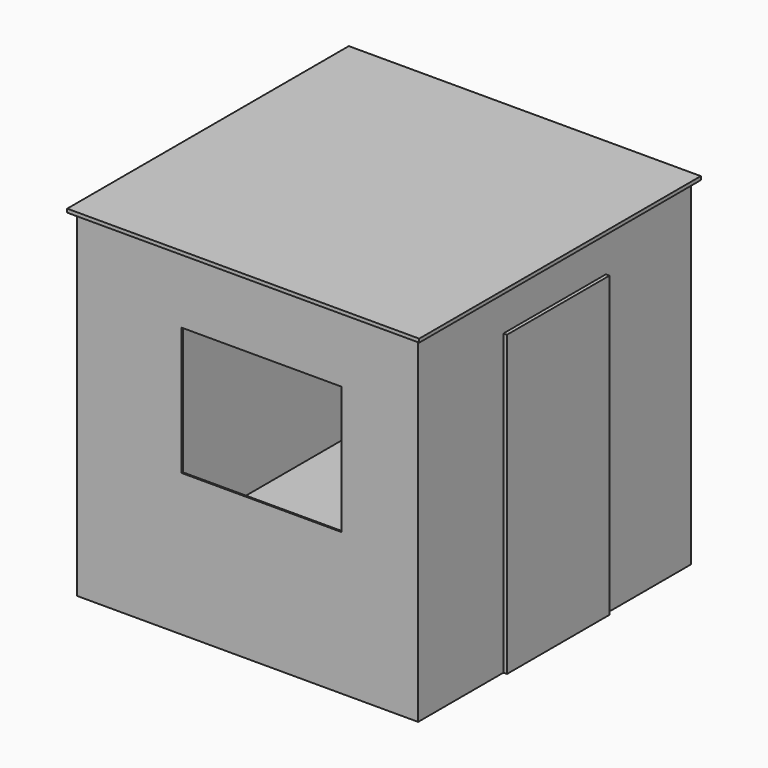
from build123d import *

# Parameters (mm, degrees)
F0_W     = 2438.4
F0_H     = 2438.4
F1_DEPTH = 2438.4
F2_W     = 2416.175
F2_H     = 2416.175
F3_DEPTH = 2413
F4_W     = 914.4
F4_H     = 2133.6
F5_DEPTH = 25.4
F6_W     = 1143
F6_H     = 914.4
F7_DEPTH = 25.4
F8_W     = 2514.6
F8_H     = 2514.6
F9_DEPTH = 25.4


with BuildPart() as f1:
    # F0 (on Top) → F1 (new body)
    with BuildSketch(Plane.XY):
        Rectangle(F0_W, F0_H)
    extrude(amount=F1_DEPTH)

    # F2 (on face) → F3 (cut)
    with BuildSketch(Plane.XY.offset(2438.4)):
        Rectangle(F2_W, F2_H)
    extrude(amount=-F3_DEPTH, mode=Mode.SUBTRACT)

    # F4 (on face) → F5 (join)
    with BuildSketch(Plane.YZ.offset(1219.2)):
        with Locations((0, 1066.8)):
            Rectangle(F4_W, F4_H)
    extrude(amount=F5_DEPTH)

    # F6 (on face) → F7 (cut)
    with BuildSketch(Plane.XZ.offset(1219.2)):
        with Locations((101.408737, 1473.2)):
            Rectangle(F6_W, F6_H)
    extrude(amount=-F7_DEPTH, mode=Mode.SUBTRACT)

    # F8 (on face) → F9 (join)
    with BuildSketch(Plane.XY.offset(2438.4)):
        Rectangle(F8_W, F8_H)
        Rectangle(F8_W, F8_H)
    extrude(amount=-F9_DEPTH)


solid = f1.part
